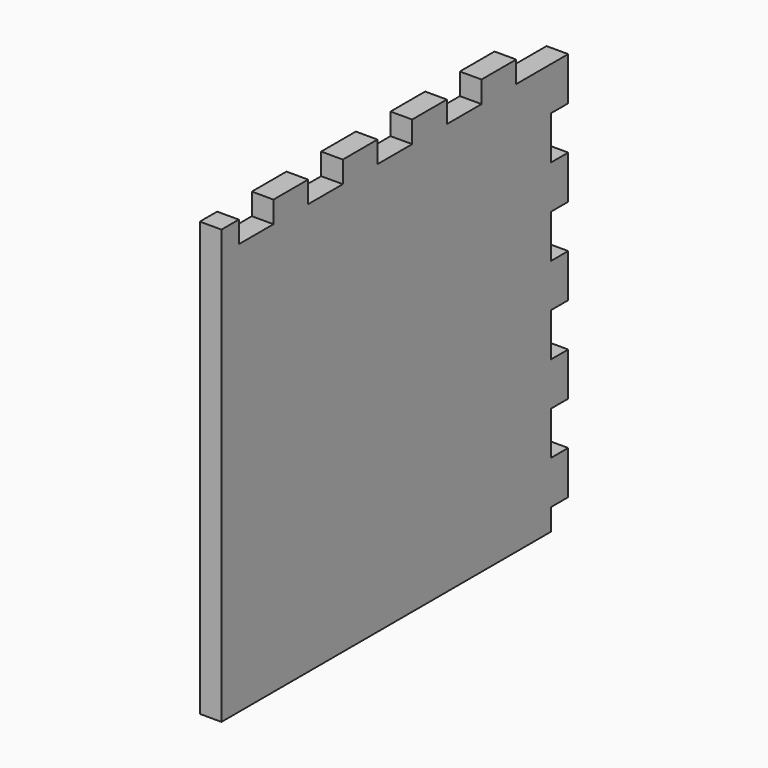
from build123d import *

# Parameters (mm, degrees)
SKETCH092_W             = 100
SKETCH092_H             = 95
PAD051_DEPTH            = 5
SKETCH115_W             = 10
SKETCH115_H             = 5
PAD071_DEPTH            = 5
LINEARPATTERN067_COUNT  = 5
LINEARPATTERN067_PITCH  = 20
SKETCH116_W             = 10
SKETCH116_H             = 5
POCKET027_DEPTH         = 5
LINEARPATTERN068_COUNT  = 5
LINEARPATTERN068_PITCH  = 20
BODY036_PLACEMENT_ANGLE = 90


with BuildPart() as part:
    # Sketch092 → Pad051 (new body)
    with BuildSketch(Plane.XY):
        Rectangle(SKETCH092_W, SKETCH092_H)
    extrude(amount=PAD051_DEPTH)

    # Sketch115 (on DatumPlane) → Pad071 (join)
    with BuildSketch(Plane(origin=(0, 47.5, 0), x_dir=(-1, 0, 0), z_dir=(0, 1, 0))):
        with Locations((-40, 2.5)):
            Rectangle(SKETCH115_W, SKETCH115_H)
    pad071 = extrude(amount=PAD071_DEPTH)

    # LinearPattern067: Pad071 ×5
    with Locations(*[(-i * LINEARPATTERN067_PITCH, 0, 0) for i in range(1, LINEARPATTERN067_COUNT)]):
        add(pad071)

    # Sketch116 (on DatumPlane) → Pocket027 (cut)
    with BuildSketch(Plane.YZ.offset(50)):
        with Locations((-37.5, 2.5)):
            Rectangle(SKETCH116_W, SKETCH116_H)
    pocket027 = extrude(amount=-POCKET027_DEPTH, mode=Mode.SUBTRACT)

    # LinearPattern068: Pocket027 ×5
    with Locations(*[(0, i * LINEARPATTERN068_PITCH, 0) for i in range(1, LINEARPATTERN068_COUNT)]):
        add(pocket027, mode=Mode.SUBTRACT)


with BuildPart() as part_1:
    # Body036 placement: moved
    add(part.part.moved(Location((55, -97.5, 55))).rotate(Axis((55, -97.5, 55), (0, -1, 0)), BODY036_PLACEMENT_ANGLE))


solid = part_1.part
